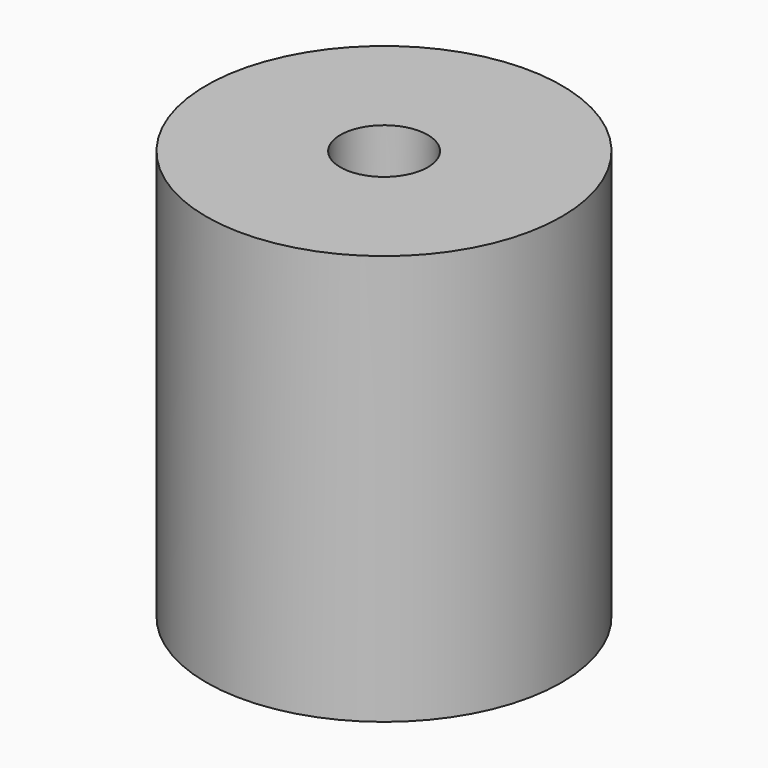
from build123d import *

# Parameters (mm, degrees)
F0_R     = 13
F5_DEPTH = 15
F4_R     = 8
F6_DEPTH = 15
F3_R     = 3.2
F8_DEPTH = 4
F9_DEPTH = 11


with BuildPart() as f5:
    # F0 (on Top) → F5 (new body, symmetric)
    with BuildSketch(Plane.XY):
        Circle(F0_R)
    extrude(amount=F5_DEPTH, both=True)

    # F4 (on offset) → F6 (cut)
    with BuildSketch(Plane.XY.offset(-15)):
        Circle(F4_R)
    extrude(amount=F6_DEPTH, mode=Mode.SUBTRACT)

    # F3 (on offset) → F8 (cut)
    with BuildSketch(Plane.XY.offset(15)):
        with Locations((0.0063437128, 0)):
            Circle(F3_R)
    extrude(amount=-F8_DEPTH, mode=Mode.SUBTRACT)

    # F7 (on Top) → F9 (cut)
    with BuildSketch(Plane.XY):
        with BuildLine():
            Line((1.8168599408, 2.625), (-1.8433996128, 2.625))
            ThreePointArc((-1.8433996128, 2.625), (-0.013269836, -3.2022189551), (1.8168599408, 2.625))
        make_face()
    extrude(amount=F9_DEPTH, mode=Mode.SUBTRACT)


solid = f5.part
